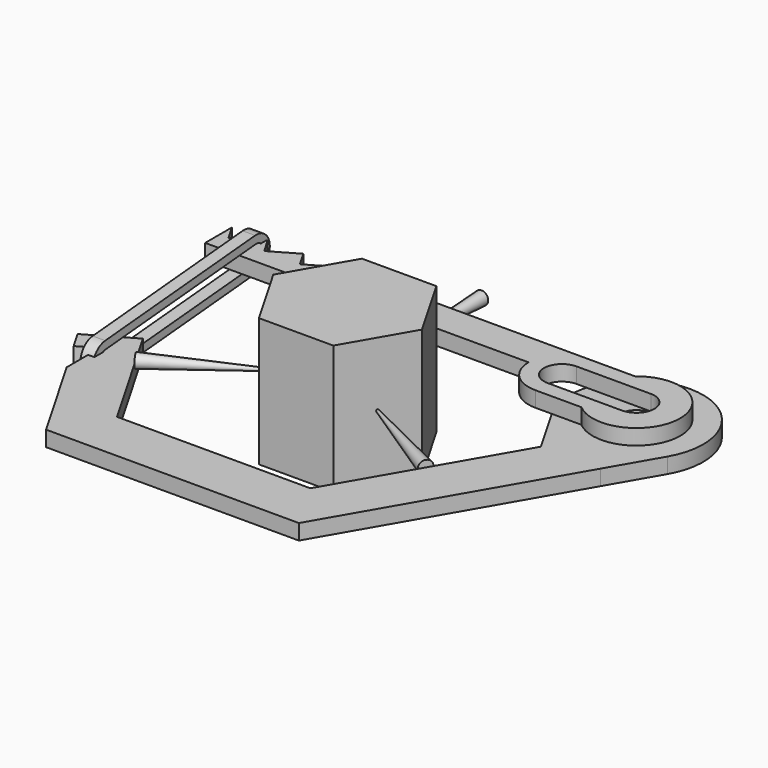
from build123d import *

# Parameters (mm, degrees)
F0_R      = 3.175
F2_DEPTH  = 3
F3_DEPTH  = 3
F4_DEPTH  = 12.5
F5_R      = 0.25
F6_DEPTH  = 20
F6_TAPER  = -3
F7_COUNT  = 3
F7_ANGLE  = 240
F10_W     = 2.4355426431
F10_H     = 1.5420415439
F12_ANGLE = -5


with BuildPart() as f2:
    # F0 (on Top) → F2 (new body)
    with BuildSketch(Plane.XY):
        with BuildLine():
            ThreePointArc((54.5352615381, 9.457843788), (43.3012701892, 28.9156875759), (32.0672788404, 9.457843788))
            Line((32.0672788404, 9.457843788), (37.5277674973, 0))
            Line((37.5277674973, 0), (18.7638837487, -32.5))
            Line((18.7638837487, -32.5), (-18.7638837487, -32.5))
            Line((-18.7638837487, -32.5), (-31.7542648054, -10))
            Line((-31.7542648054, -10), (-40.4145188433, -15))
            Line((-40.4145188433, -15), (-38.4125282942, -18.4675493473))
            Line((-38.4125282942, -18.4675493473), (-34.899238497, -16.4391505372))
            Line((-34.899238497, -16.4391505372), (-34.899238497, -24.5527457777))
            Line((-34.899238497, -24.5527457777), (-24.5373864406, -42.5))
            Line((-24.5373864406, -42.5), (24.5373864406, -42.5))
            Line((24.5373864406, -42.5), (49.0747728811, 0))
            Line((49.0747728811, 0), (54.5352615381, 9.457843788))
        make_face()
        with Locations((43.3012701892, 15.9437917173)):
            Circle(F0_R, mode=Mode.SUBTRACT)
    extrude(amount=-F2_DEPTH)


with BuildPart() as f3:
    # F1 (on Top) → F3 (new body)
    with BuildSketch(Plane.XY):
        with BuildLine():
            Line((-40.4145188433, 15.9437917173), (22.3675134595, 15.9437917173))
            ThreePointArc((22.3675134595, 15.9437917173), (24.2713193818, 20.539985795), (28.8675134595, 22.4437917173))
            Line((28.8675134595, 22.4437917173), (-19.6299091524, 22.4437917173))
            Line((-19.6299091524, 22.4437917173), (-24.8260615752, 19.4437917173))
            Line((-24.8260615752, 19.4437917173), (-26.5581123827, 22.4437917173))
            Line((-26.5581123827, 22.4437917173), (-31.7542648054, 19.4437917173))
            Line((-31.7542648054, 19.4437917173), (-33.486315613, 22.4437917173))
            Line((-33.486315613, 22.4437917173), (-38.6824680357, 19.4437917173))
            Line((-38.6824680357, 19.4437917173), (-40.4145188433, 22.4437917173))
            Line((-40.4145188433, 22.4437917173), (-40.4145188433, 15.9437917173))
        make_face()
        with BuildLine():
            Line((28.8675134595, 9.4437917173), (37.8240446142, 9.4437917173))
            ThreePointArc((37.8240446142, 9.4437917173), (51.8012701892, 15.9437917173), (37.8240446142, 22.4437917173))
            Line((37.8240446142, 22.4437917173), (28.8675134595, 22.4437917173))
            ThreePointArc((28.8675134595, 22.4437917173), (24.2713193818, 20.539985795), (22.3675134595, 15.9437917173))
            ThreePointArc((22.3675134595, 15.9437917173), (24.2713193818, 11.3475976396), (28.8675134595, 9.4437917173))
        make_face()
        with BuildLine():
            Line((28.8675134595, 19.4437917173), (43.3012701892, 19.4437917173))
            ThreePointArc((43.3012701892, 19.4437917173), (46.8012701892, 15.9437917173), (43.3012701892, 12.4437917173))
            Line((43.3012701892, 12.4437917173), (28.8675134595, 12.4437917173))
            ThreePointArc((28.8675134595, 12.4437917173), (25.3675134595, 15.9437917173), (28.8675134595, 19.4437917173))
        make_face(mode=Mode.SUBTRACT)
    extrude(amount=F3_DEPTH)


with BuildPart() as f4:
    # F0 (on Top) → F4 (new body, symmetric)
    with BuildSketch(Plane.XY):
        Polygon((14.4337567297, 0), (7.2168783649, 12.5), (-7.2168783649, 12.5), (-14.4337567297, 0), (-7.2168783649, -12.5), (7.2168783649, -12.5), align=None)
    extrude(amount=F4_DEPTH, both=True)


with BuildPart() as f6:
    # F5 (on face) → F6 (new body, through all)
    with BuildSketch(Plane(origin=(-10.8253175473, -6.25, 0), x_dir=(0.5, -0.8660254038, 0), z_dir=(-0.8660254038, -0.5, 0))):
        Circle(F5_R)
    extrude(amount=F6_DEPTH, taper=F6_TAPER)


with BuildPart() as f7_1:
    # F7: instance of F6
    add(f6.part.rotate(Axis((0, 0, 0), (0, 0, 1)), 1 * F7_ANGLE / (F7_COUNT - 1)))


with BuildPart() as f7_2:
    # F7: instance of F6
    add(f6.part.rotate(Axis((0, 0, 0), (0, 0, 1)), 2 * F7_ANGLE / (F7_COUNT - 1)))


with BuildPart() as f11:
    # F11: sweep along a path in F8
    with BuildLine(Plane(origin=(-34.899238497, 0, 0), x_dir=(0, -1, 0), z_dir=(-1, 0, 0))) as f11_path:
        Line((16.4391505372, -4), (-20.083302632, -4))
        ThreePointArc((-20.083302632, -4), (-22.583302632, -1.5), (-20.083302632, 1))
        Line((-20.083302632, 1), (16.4391505372, 1))
        ThreePointArc((16.4391505372, 1), (18.9391505372, -1.5), (16.4391505372, -4))
    # F10 (on line) → F11 (sweep)
    with BuildSketch(Plane(origin=(0, -16.4391505372, 0), x_dir=(-1, 0, 0), z_dir=(0, 1, 0))):
        with Locations((34.899238497, -4)):
            Rectangle(F10_W, F10_H)
    sweep(path=f11_path.line)


with BuildPart() as f11_1:
    # F12: moved
    add(f11.part.rotate(Axis((-33.6814671755, -16.4391505372, -1.5), (-1, 0, 0)), F12_ANGLE))


solid = Compound([f2.part, f3.part, f4.part, f6.part, f7_1.part, f7_2.part, f11_1.part])
